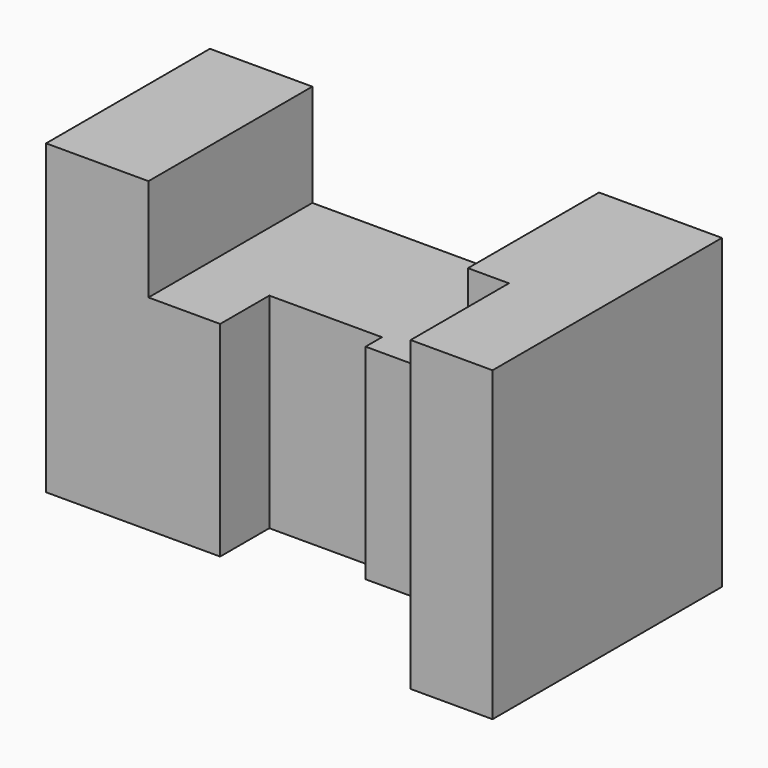
from build123d import *

# Parameters (mm, degrees)
F1_DEPTH = 75
F3_DEPTH = 25


with BuildPart() as f1:
    # F0 (on Top) → F1 (new body)
    with BuildSketch(Plane.XY):
        Polygon((0, 50), (0, 0), (42.5, 0), (42.5, 15), (70, 15), (70, 10), (105, 10), (105, -20), (125, -20), (125, 50), align=None)
    extrude(amount=-F1_DEPTH)

    # F2 (on Top) → F3 (cut)
    with BuildSketch(Plane.XY):
        Polygon((95, 50), (25, 50), (25, 0), (42.5, 0), (42.5, 15), (70, 15), (70, 10), (95, 10), align=None)
    extrude(amount=-F3_DEPTH, mode=Mode.SUBTRACT)


solid = f1.part
